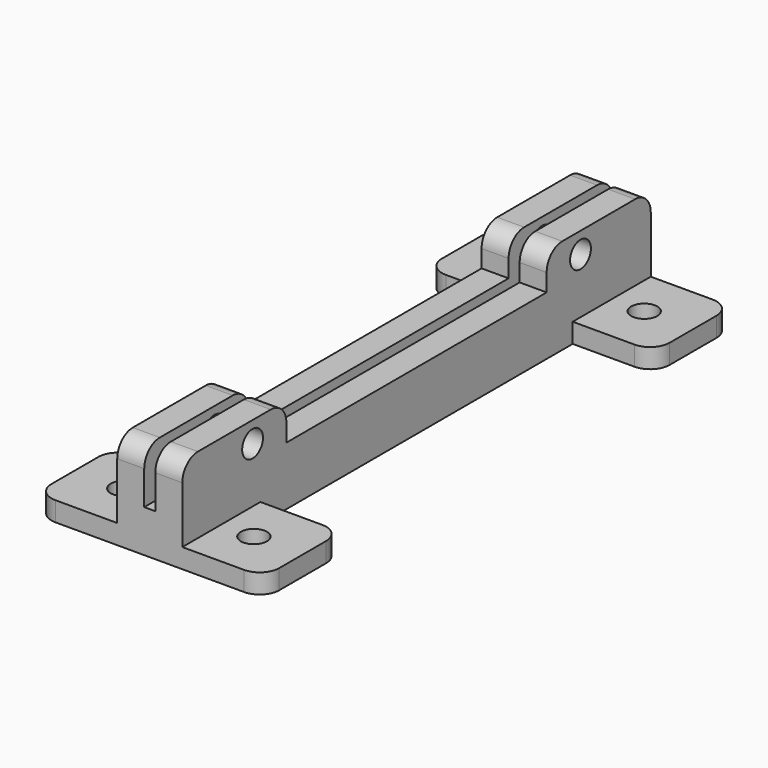
from build123d import *

# Parameters (mm, degrees)
SKETCH_R     = 2
PAD_DEPTH    = 3
SKETCH001_W  = 4.15
SKETCH001_H  = 90
PAD001_DEPTH = 11.7
SKETCH002_R  = 2
SKETCH002_W  = 50
SKETCH002_H  = 6
POCKET_DEPTH = 15
SKETCH003_W  = 4.09
SKETCH003_H  = 90
PAD002_DEPTH = 3.5
FILLET_R     = 3


with BuildPart() as part:
    # Sketch → Pad (new body)
    with BuildSketch(Plane.XY):
        with BuildLine():
            Line((-14.5, 45), (14.5, 45))
            ThreePointArc((17.5, 42), (16.62132, 44.12132), (14.5, 45))
            Line((17.5, 42), (17.5, 33))
            ThreePointArc((14.5, 30), (16.62132, 30.87868), (17.5, 33))
            Line((14.5, 30), (5, 30))
            Line((5, 30), (5, -30))
            Line((5, -30), (14.5, -30))
            ThreePointArc((17.5, -33), (16.62132, -30.87868), (14.5, -30))
            Line((17.5, -33), (17.5, -42))
            ThreePointArc((14.5, -45), (16.62132, -44.12132), (17.5, -42))
            Line((14.5, -45), (-14.5, -45))
            ThreePointArc((-17.5, -42), (-16.62132, -44.12132), (-14.5, -45))
            Line((-17.5, -42), (-17.5, -33))
            ThreePointArc((-14.5, -30), (-16.62132, -30.87868), (-17.5, -33))
            Line((-5, -30), (-14.5, -30))
            Line((-5, 30), (-5, -30))
            Line((-14.5, 30), (-5, 30))
            ThreePointArc((-17.5, 33), (-16.62132, 30.87868), (-14.5, 30))
            Line((-17.5, 33), (-17.5, 42))
            ThreePointArc((-14.5, 45), (-16.62132, 44.12132), (-17.5, 42))
        make_face()
        with Locations((-10, 37.5)):
            Circle(SKETCH_R, mode=Mode.SUBTRACT)
        with Locations((10, 37.5)):
            Circle(SKETCH_R, mode=Mode.SUBTRACT)
        with Locations((-10, -37.5)):
            Circle(SKETCH_R, mode=Mode.SUBTRACT)
        with Locations((10, -37.5)):
            Circle(SKETCH_R, mode=Mode.SUBTRACT)
    extrude(amount=PAD_DEPTH)

    # Sketch001 → Pad001 (join)
    with BuildSketch(Plane.XY.offset(3)):
        with Locations((-2.925, 0)):
            Rectangle(SKETCH001_W, SKETCH001_H)
        with Locations((2.925, 0)):
            Rectangle(SKETCH001_W, SKETCH001_H)
    extrude(amount=PAD001_DEPTH)

    # Sketch002 → Pocket (cut)
    with BuildSketch(Plane.YZ.offset(5)):
        with Locations((-31.5, 11.5)):
            Circle(SKETCH002_R)
        with Locations((31.5, 11.5)):
            Circle(SKETCH002_R)
        with Locations((0, 12)):
            Rectangle(SKETCH002_W, SKETCH002_H)
    extrude(amount=-POCKET_DEPTH, mode=Mode.SUBTRACT)

    # Sketch003 → Pad002 (join)
    with BuildSketch(Plane.XY.offset(3)):
        with Locations((0.341939, 0)):
            Rectangle(SKETCH003_W, SKETCH003_H)
    extrude(amount=PAD002_DEPTH)

    # Fillet
    fillet_edges = [part.edges().sort_by_distance(p)[0] for p in [
        (-2.925, -45, 14.7),
        (2.925, -45, 14.7),
        (-2.925, -25, 14.7),
        (2.925, -25, 14.7),
        (-2.925, 25, 14.7),
        (2.925, 25, 14.7),
        (-2.925, 45, 14.7),
        (2.925, 45, 14.7),
    ]]
    fillet(fillet_edges, radius=FILLET_R)


solid = part.part
